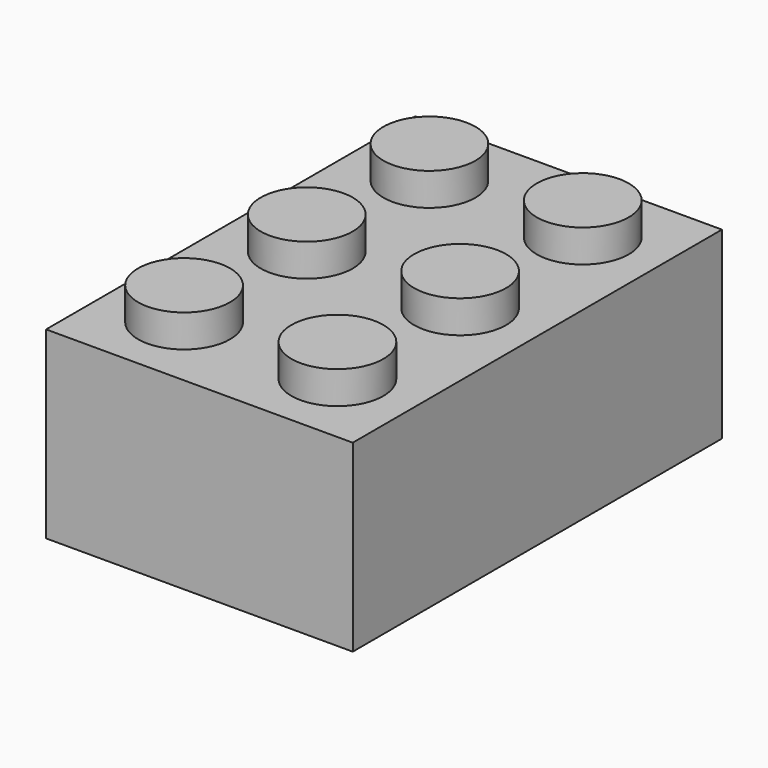
from build123d import *

# Parameters (mm, degrees)
F1_DEPTH  = 8
F3_W      = 8
F3_H      = 8
F3_R      = 2.4
F4_DEPTH  = 1.7
F5_R      = 2.4
F6_DEPTH  = 1.7
F11_W     = 31.0510899872
F11_H     = 25.4
F12_DEPTH = 7.9248


with BuildPart() as f1:
    # F0 (on Front) → F1 (new body)
    with BuildSketch(Plane.XZ):
        Polygon((-2.4, 9.6), (-4, 9.6), (-4, 0), (4, 0), (4, 9.6), (2.4, 9.6), (2.4, 11.3), (-2.4, 11.3), align=None)
    extrude(amount=F1_DEPTH)

    # F3 (on plane+point) → F4 (cut, through all)
    with BuildSketch(Plane.XY.offset(11.3)):
        with Locations((0, -4)):
            Rectangle(F3_W, F3_H)
        with Locations((0, -4)):
            Circle(F3_R, mode=Mode.SUBTRACT)
    extrude(amount=-F4_DEPTH, mode=Mode.SUBTRACT)

    # F5 (on Top) → F6 (cut)
    with BuildSketch(Plane.XY):
        with Locations((0, -4)):
            Circle(F5_R)
    extrude(amount=F6_DEPTH, mode=Mode.SUBTRACT)

    # F8: F1 across plane


with BuildPart() as f1_1:
    add(f1.part)
    add(f1.part.mirror(Plane.YZ.offset(4)))

    # F9: F1 across face


with BuildPart() as f1_2:
    add(f1_1.part)
    add(f1_1.part.mirror(Plane(origin=(4, -8, 4.8), x_dir=(1, 0, 0), z_dir=(0, -1, 0))))

    # F10: F1 across face


with BuildPart() as f1_3:
    add(f1_2.part)
    add(f1_2.part.mirror(Plane(origin=(4, -16, 4.8), x_dir=(1, 0, 0), z_dir=(0, -1, 0))))

    # F11 (on Front) → F12 (cut)
    with BuildSketch(Plane.XZ):
        with Locations((3.3294046298, 0)):
            Rectangle(F11_W, F11_H)
    extrude(amount=F12_DEPTH, mode=Mode.SUBTRACT)


solid = f1_3.part
